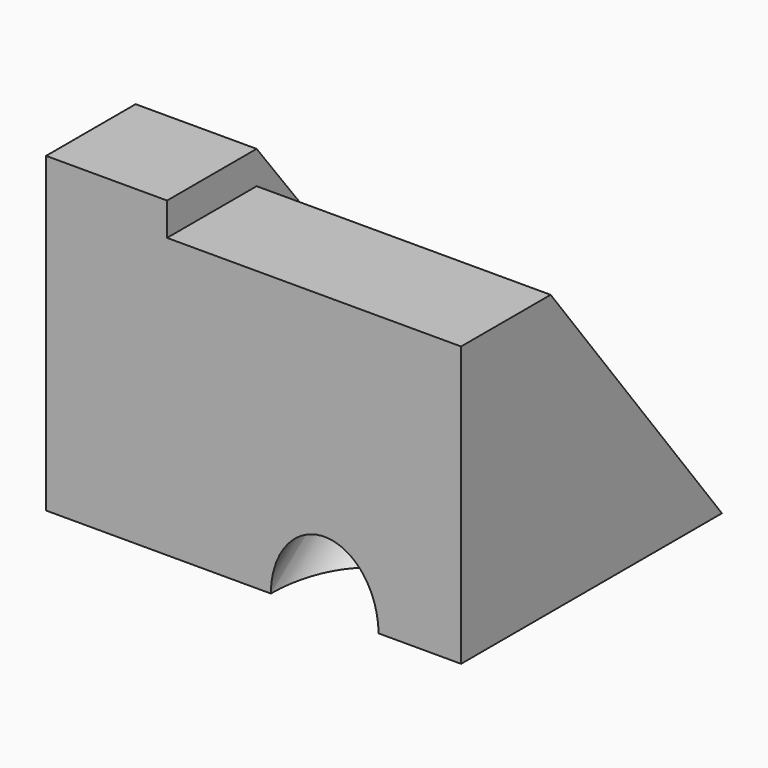
from build123d import *

# Parameters (mm, degrees)
F0_W     = 23.4994404018
F0_H     = 65.5540376902
F1_DEPTH = 25.4
F3_DEPTH = 61.722
F4_R     = 11.3020166748
F5_DEPTH = 63.754


with BuildPart() as f1:
    # F0 (on Right) → F1 (new body)
    with BuildSketch(Plane.YZ):
        Polygon((0, 65.5540376902), (0, 0), (51.2884631753, 0), align=None)
        with Locations((-11.7497202009, 32.7770188451)):
            Rectangle(F0_W, F0_H)
    extrude(amount=F1_DEPTH)

    # F2 (on face) → F3 (join)
    with BuildSketch(Plane.YZ.offset(25.4)):
        Polygon((0, 58.6534105241), (-23.4994404018, 58.6534105241), (-23.4994404018, 0), (44.9473448098, 0), align=None)
    extrude(amount=F3_DEPTH)

    # F4 (on face) → F5 (cut)
    with BuildSketch(Plane(origin=(0, 28.3177833218, 21.7005142555), x_dir=(-1, 0, 0), z_dir=(0, 0.7937387929, 0.6082587678))):
        with Locations((-58.4767535329, 14.2394453287)):
            Circle(F4_R)
    extrude(amount=-F5_DEPTH, mode=Mode.SUBTRACT)


solid = f1.part
